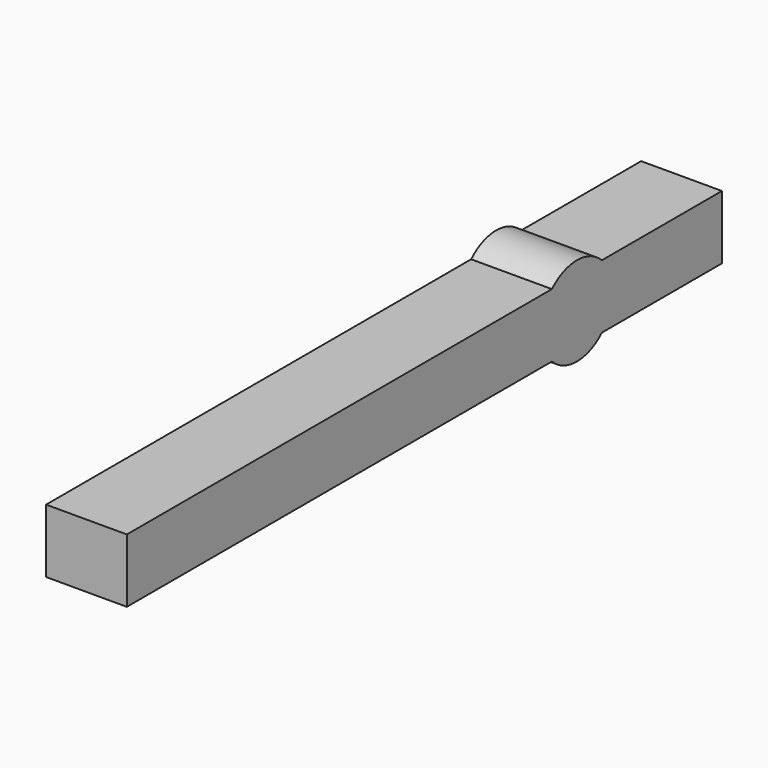
from build123d import *

# Parameters (mm, degrees)
F0_W          = 3
F0_H          = 3
F1_DEPTH      = 1.9
F1_DEPTH_BACK = 1.9


with BuildPart() as f1:
    # F0 (on Right) → F1 (new body, two sides)
    with BuildSketch(Plane.YZ) as f1_sk:
        with BuildLine():
            Line((1.469694, 1.5), (-1.469694, 1.5))
            ThreePointArc((-1.469694, 1.5), (-2.1, 0), (-1.469694, -1.5))
            Line((-1.469694, -1.5), (1.469694, -1.5))
            ThreePointArc((1.469694, -1.5), (1.936021, -0.813524), (2.1, 0))
            ThreePointArc((2.1, 0), (1.936021, 0.813524), (1.469694, 1.5))
        make_face()
        with BuildLine():
            Line((1.469694, -1.5), (-1.469694, -1.5))
            ThreePointArc((-1.469694, -1.5), (0, -2.1), (1.469694, -1.5))
        make_face()
        with BuildLine():
            Line((5.530306, 1.5), (1.469694, 1.5))
            ThreePointArc((1.469694, 1.5), (1.936021, 0.813524), (2.1, 0))
            ThreePointArc((2.1, 0), (1.936021, -0.813524), (1.469694, -1.5))
            Line((1.469694, -1.5), (5.530306, -1.5))
            Line((5.530306, -1.5), (5.530306, 1.5))
        make_face()
        with Locations((7.030306, 0)):
            Rectangle(F0_W, F0_H)
        with BuildLine():
            ThreePointArc((1.469694, 1.5), (0, 2.1), (-1.469694, 1.5))
            Line((-1.469694, 1.5), (1.469694, 1.5))
        make_face()
        with BuildLine():
            ThreePointArc((-1.469694, -1.5), (-2.1, 0), (-1.469694, 1.5))
            Line((-1.469694, 1.5), (-26.469694, 1.5))
            Line((-26.469694, 1.5), (-26.469694, -1.5))
            Line((-26.469694, -1.5), (-1.469694, -1.5))
        make_face()
    extrude(amount=F1_DEPTH)
    extrude(f1_sk.sketch, amount=-F1_DEPTH_BACK)


solid = f1.part
